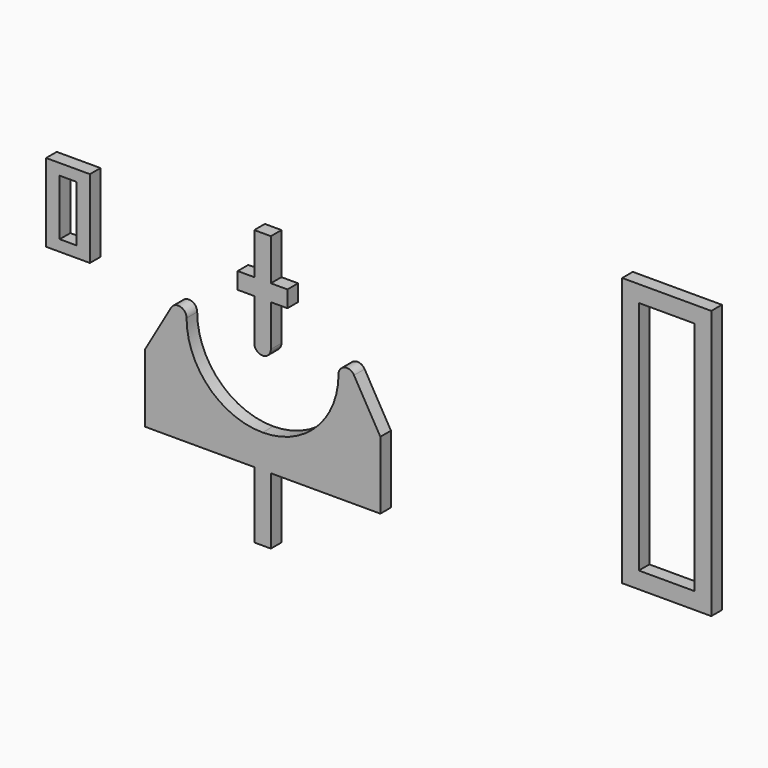
from build123d import *

# Parameters (mm, degrees)
F1_DEPTH = 4
F2_W     = 13.214283
F2_H     = 23.571432
F2_W_2   = 5
F2_H_2   = 16.86
F2_W_3   = 26.86
F2_H_3   = 81
F2_W_4   = 16.86
F2_H_4   = 71
F3_DEPTH = 4


with BuildPart() as f1:
    # F0 (on Front) → F1 (new body)
    with BuildSketch(Plane.XZ):
        with BuildLine():
            ThreePointArc((0, -22.9), (-16.192745, -16.192745), (-22.9, 0))
            ThreePointArc((-22.9, 0), (-24.752952, 2.414815), (-27.565064, 1.25))
            Line((-27.565064, 1.25), (-35.5, -12.493713))
            Line((-35.5, -12.493713), (-35.5, -32.9))
            Line((-35.5, -32.9), (-2.5, -32.9))
            Line((-2.5, -32.9), (-2.5, -52.9))
            Line((-2.5, -52.9), (2.5, -52.9))
            Line((2.5, -52.9), (2.5, -32.9))
            Line((2.5, -32.9), (35.5, -32.9))
            Line((35.5, -32.9), (35.5, -12.493713))
            Line((35.5, -12.493713), (27.565064, 1.25))
            ThreePointArc((27.565064, 1.25), (24.752952, 2.414815), (22.9, 0))
            ThreePointArc((22.9, 0), (16.192745, -16.192745), (0, -22.9))
        make_face()
        with BuildLine():
            Line((-2.5, 12.5), (-2.5, 0))
            ThreePointArc((-2.5, 0), (0, -2.5), (2.5, 0))
            Line((2.5, 0), (2.5, 12.5))
            Line((2.5, 12.5), (7.5, 12.5))
            Line((7.5, 12.5), (7.5, 17.5))
            Line((7.5, 17.5), (2.5, 17.5))
            Line((2.5, 17.5), (2.5, 30))
            Line((2.5, 30), (-2.5, 30))
            Line((-2.5, 30), (-2.5, 17.5))
            Line((-2.5, 17.5), (-7.5, 17.5))
            Line((-7.5, 17.5), (-7.5, 12.5))
            Line((-7.5, 12.5), (-2.5, 12.5))
        make_face()
    extrude(amount=F1_DEPTH)


with BuildPart() as f3:
    # F2 (on Front) → F3 (new body)
    with BuildSketch(Plane.XZ):
        with Locations((-58.642224, 16.932664)):
            Rectangle(F2_W, F2_H)
        with Locations((-58.642223, 16.932664)):
            Rectangle(F2_W_2, F2_H_2, mode=Mode.SUBTRACT)
        with Locations((121.827655, 12.847362)):
            Rectangle(F2_W_3, F2_H_3)
        with Locations((121.827655, 12.847362)):
            Rectangle(F2_W_4, F2_H_4, mode=Mode.SUBTRACT)
    extrude(amount=F3_DEPTH)


solid = Compound([f1.part, f3.part])
